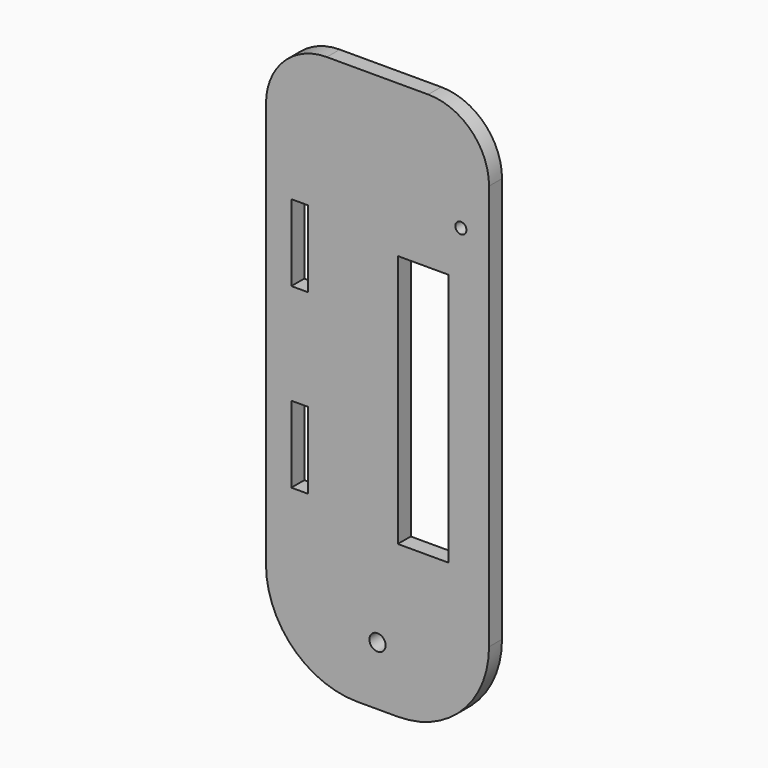
from build123d import *

# Parameters (mm, degrees)
F0_W     = 3.3
F0_H     = 15.1
F0_R     = 1.6
F0_W_2   = 10
F0_H_2   = 50
F0_R_2   = 1.1
F1_DEPTH = 3.2


with BuildPart() as f1:
    # F0 (on Front) → F1 (new body)
    with BuildSketch(Plane.XZ):
        with BuildLine():
            Line((17.108108, 110), (-2.891892, 110))
            ThreePointArc((-2.891892, 110), (-11.377174, 106.485281), (-14.891892, 98))
            Line((-14.891892, 98), (-14.891892, 18))
            ThreePointArc((-14.891892, 18), (-9.619814, 5.272078), (3.108108, 0))
            Line((3.108108, 0), (11.108108, 0))
            ThreePointArc((11.108108, 0), (23.83603, 5.272078), (29.108108, 18))
            Line((29.108108, 18), (29.108108, 98))
            ThreePointArc((29.108108, 98), (25.593389, 106.485281), (17.108108, 110))
        make_face()
        with Locations((-8.241892, 40.5)):
            Rectangle(F0_W, F0_H, mode=Mode.SUBTRACT)
        with Locations((7.108108, 11.6)):
            Circle(F0_R, mode=Mode.SUBTRACT)
        with Locations((-8.241892, 75.5)):
            Rectangle(F0_W, F0_H, mode=Mode.SUBTRACT)
        with Locations((16.108108, 55)):
            Rectangle(F0_W_2, F0_H_2, mode=Mode.SUBTRACT)
        with Locations((23.555327, 88.906578)):
            Circle(F0_R_2, mode=Mode.SUBTRACT)
    extrude(amount=F1_DEPTH)


solid = f1.part
